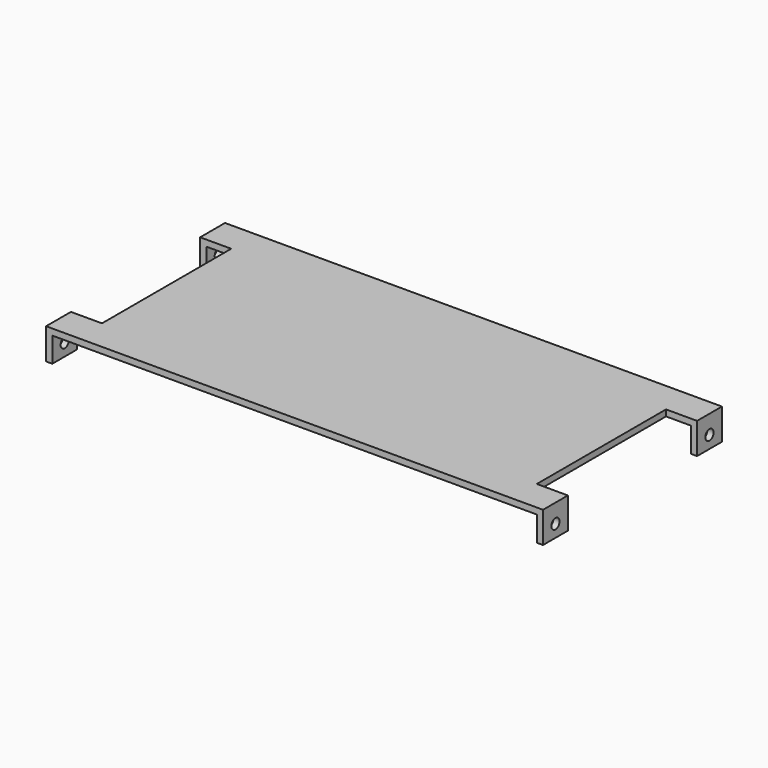
from build123d import *

# Parameters (mm, degrees)
BOX002_W     = 156
BOX002_H     = 72
BOX002_DEPTH = 8
BOX001_W     = 10
BOX001_H     = 52
BOX001_DEPTH = 10
BOX_W        = 160
BOX_H        = 72
BOX_DEPTH    = 10
SKETCH_R     = 1.65
HOLE_DEPTH   = 160.001


with BuildPart() as obj1:
    # Box002 → Box002 (new body)
    with BuildSketch(Plane(origin=(2, 0, 0), x_dir=(1, 0, 0), z_dir=(0, 0, 1))):
        with Locations((78, 36)):
            Rectangle(BOX002_W, BOX002_H)
    extrude(amount=BOX002_DEPTH)


with BuildPart() as obj2:
    # Box001 → Box001 (new body)
    with BuildSketch(Plane(origin=(0, 10, 0), x_dir=(1, 0, 0), z_dir=(0, 0, 1))):
        with Locations((5, 26)):
            Rectangle(BOX001_W, BOX001_H)
    extrude(amount=BOX001_DEPTH)


with BuildPart() as part_mirroring:
    # Part__Mirroring: instance of obj2
    add(obj2.part.mirror(Plane(origin=(80, 0, 0), x_dir=(0, -1, 0), z_dir=(1, 0, 0))))


with BuildPart() as body:
    # Box → Box (new body)
    with BuildSketch(Plane.XY):
        with Locations((80, 36)):
            Rectangle(BOX_W, BOX_H)
    extrude(amount=BOX_DEPTH)

    # Cut: cut obj2
    add(obj2.part, mode=Mode.SUBTRACT)

    # Cut001: cut Part__Mirroring
    add(part_mirroring.part, mode=Mode.SUBTRACT)

    # Cut002: cut obj1
    add(obj1.part, mode=Mode.SUBTRACT)

    # Sketch (on Face1 of BaseFeature) → Hole (cut, through all)
    with BuildSketch(Plane(origin=(0, 0, 0), x_dir=(0, -1, 0), z_dir=(-1, 0, 0))):
        with Locations((-5, 4)):
            Circle(SKETCH_R)
        with Locations((-67, 4)):
            Circle(SKETCH_R)
    extrude(amount=-HOLE_DEPTH, mode=Mode.SUBTRACT)


solid = body.part
